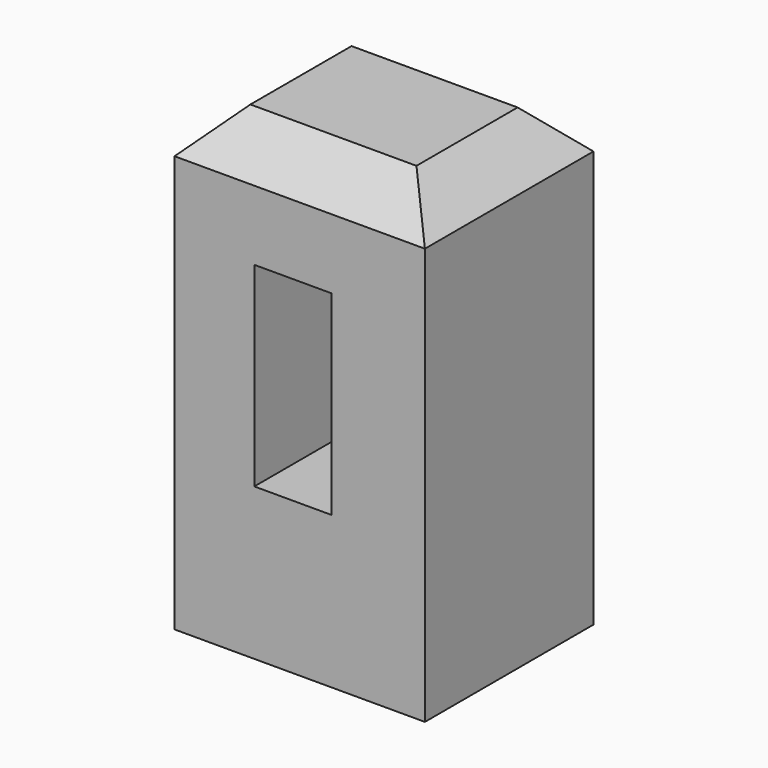
from build123d import *

# Parameters (mm, degrees)
F0_W     = 30.181185
F0_H     = 55.298096
F0_W_2   = 9.286515
F0_H_2   = 23.520468
F1_DEPTH = 25.4
F2_SIZE  = 5.08


with BuildPart() as f1:
    # F0 (on Front) → F1 (new body)
    with BuildSketch(Plane.XZ):
        with Locations((-100.825071, 33.080821)):
            Rectangle(F0_W, F0_H)
        with Locations((-101.65422, 35.494764)):
            Rectangle(F0_W_2, F0_H_2, mode=Mode.SUBTRACT)
    extrude(amount=F1_DEPTH)

    # F2
    f2_edges = [f1.edges().sort_by_distance(p)[0] for p in [
        (-100.825071, -25.4, 60.729869),
        (-100.825071, 0, 60.729869),
        (-85.734479, -12.7, 60.729869),
        (-115.915664, -12.7, 60.729869),
    ]]
    chamfer(f2_edges, length=F2_SIZE)


solid = f1.part
